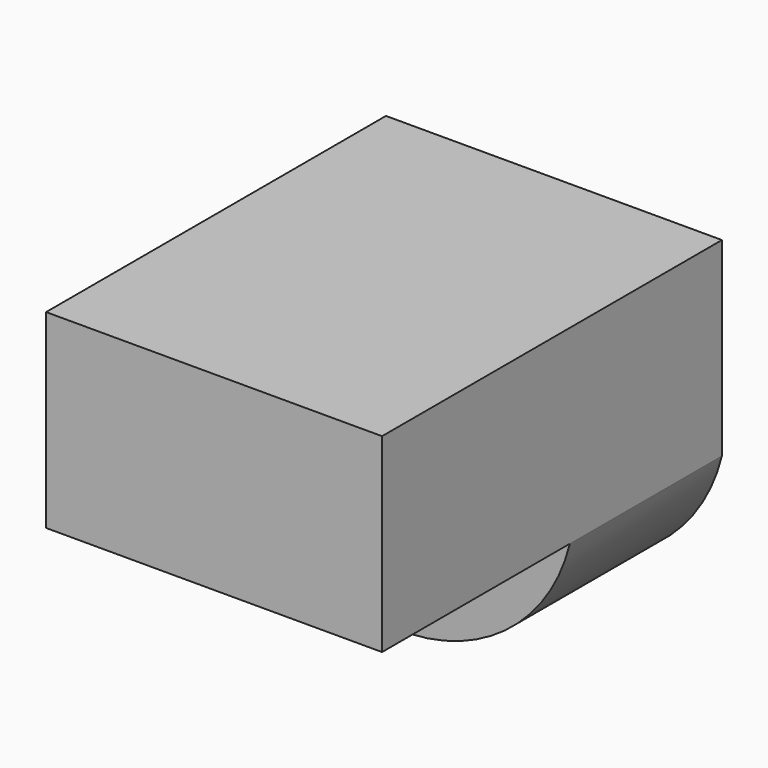
from build123d import *

# Parameters (mm, degrees)
F0_W     = 44.8976987973
F0_H     = 31.3708279282
F1_DEPTH = 25.4
F2_W     = 44.8976987973
F2_H     = 25.4
F3_DEPTH = 25.4
F4_R     = 4.1790450116
F5_DEPTH = 25.4


with BuildPart() as f1:
    # F0 (on Top) → F1 (new body)
    with BuildSketch(Plane.XY):
        with Locations((-35.9757202677, 11.9439391419)):
            Rectangle(F0_W, F0_H)
    extrude(amount=F1_DEPTH)

    # F2 (on face) → F3 (join)
    with BuildSketch(Plane(origin=(0, 27.629353106, 0), x_dir=(-1, 0, 0), z_dir=(0, 1, 0))):
        with BuildLine():
            Line((58.4245696664, 0), (13.5268708691, 0))
            ThreePointArc((13.5268708691, 0), (35.9757202677, -17.5745007714), (58.4245696664, 0))
        make_face()
        with Locations((35.9757202677, 12.7)):
            Rectangle(F2_W, F2_H)
    extrude(amount=F3_DEPTH)

    # F4 (on face) → F5 (cut)
    with BuildSketch(Plane(origin=(0, 53.029353106, 0), x_dir=(-1, 0, 0), z_dir=(0, 1, 0))):
        with Locations((34.8900407553, -6.8504069932)):
            Circle(F4_R)
    extrude(amount=-F5_DEPTH, mode=Mode.SUBTRACT)


solid = f1.part
